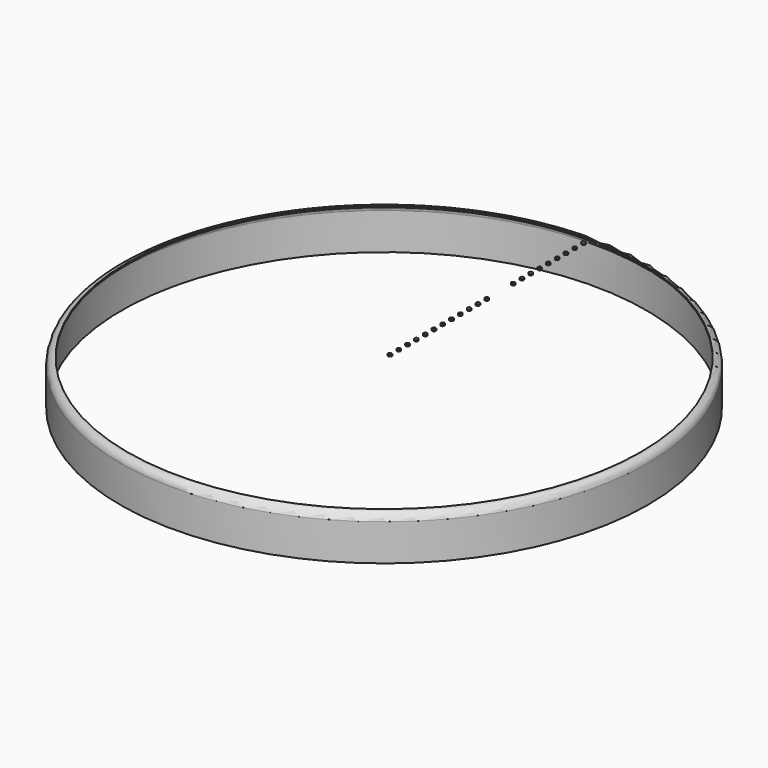
from build123d import *

# Parameters (mm, degrees)
F0_R     = 457.2
F1_DEPTH = 76.2
F2_R     = 12.7
F3_T     = -2.54
F4_R     = 444.5
F4_R_2   = 3.175
F5_DEPTH = 2.54


with BuildPart() as f1:
    # F0 (on Top) → F1 (new body)
    with BuildSketch(Plane.XY):
        Circle(F0_R)
    extrude(amount=F1_DEPTH)

    # F2
    f2_edges = [f1.edges().sort_by_distance(p)[0] for p in [
        (-457.2, 0, 76.2),
    ]]
    fillet(f2_edges, radius=F2_R)

    # F3
    f3_openings = [f1.faces().sort_by_distance(p)[0] for p in [
        (0, 0, 0),
    ]]
    offset(amount=F3_T, openings=f3_openings)

    # F4 (on face) → F5 (cut)
    with BuildSketch(Plane.XY.offset(76.2)):
        Circle(F4_R)
        with Locations((0, 12.7)):
            Circle(F4_R_2, mode=Mode.SUBTRACT)
        with Locations((0, 31.75)):
            Circle(F4_R_2, mode=Mode.SUBTRACT)
        with Locations((0, 50.8)):
            Circle(F4_R_2, mode=Mode.SUBTRACT)
        with Locations((0, 69.85)):
            Circle(F4_R_2, mode=Mode.SUBTRACT)
        with Locations((0, 88.9)):
            Circle(F4_R_2, mode=Mode.SUBTRACT)
        with Locations((0, 107.95)):
            Circle(F4_R_2, mode=Mode.SUBTRACT)
        with Locations((0, 127)):
            Circle(F4_R_2, mode=Mode.SUBTRACT)
        with Locations((0, 146.05)):
            Circle(F4_R_2, mode=Mode.SUBTRACT)
        with Locations((0, 165.1)):
            Circle(F4_R_2, mode=Mode.SUBTRACT)
        with Locations((0, 184.15)):
            Circle(F4_R_2, mode=Mode.SUBTRACT)
        with Locations((0, 203.2)):
            Circle(F4_R_2, mode=Mode.SUBTRACT)
        with Locations((0, 222.25)):
            Circle(F4_R_2, mode=Mode.SUBTRACT)
        with Locations((0, 241.3)):
            Circle(F4_R_2, mode=Mode.SUBTRACT)
        with Locations((0, 260.35)):
            Circle(F4_R_2, mode=Mode.SUBTRACT)
        with Locations((0, 279.4)):
            Circle(F4_R_2, mode=Mode.SUBTRACT)
        with Locations((0, 298.45)):
            Circle(F4_R_2, mode=Mode.SUBTRACT)
        with Locations((0, 317.5)):
            Circle(F4_R_2, mode=Mode.SUBTRACT)
        with Locations((0, 336.55)):
            Circle(F4_R_2, mode=Mode.SUBTRACT)
        with Locations((0, 355.6)):
            Circle(F4_R_2, mode=Mode.SUBTRACT)
        with Locations((0, 374.65)):
            Circle(F4_R_2, mode=Mode.SUBTRACT)
        with Locations((0, 393.7)):
            Circle(F4_R_2, mode=Mode.SUBTRACT)
        with Locations((0, 412.75)):
            Circle(F4_R_2, mode=Mode.SUBTRACT)
        with Locations((0, 431.8)):
            Circle(F4_R_2, mode=Mode.SUBTRACT)
        with Locations((0, 241.3)):
            Circle(F4_R_2)
        with Locations((0, 260.35)):
            Circle(F4_R_2)
    extrude(amount=-F5_DEPTH, mode=Mode.SUBTRACT)


solid = f1.part
